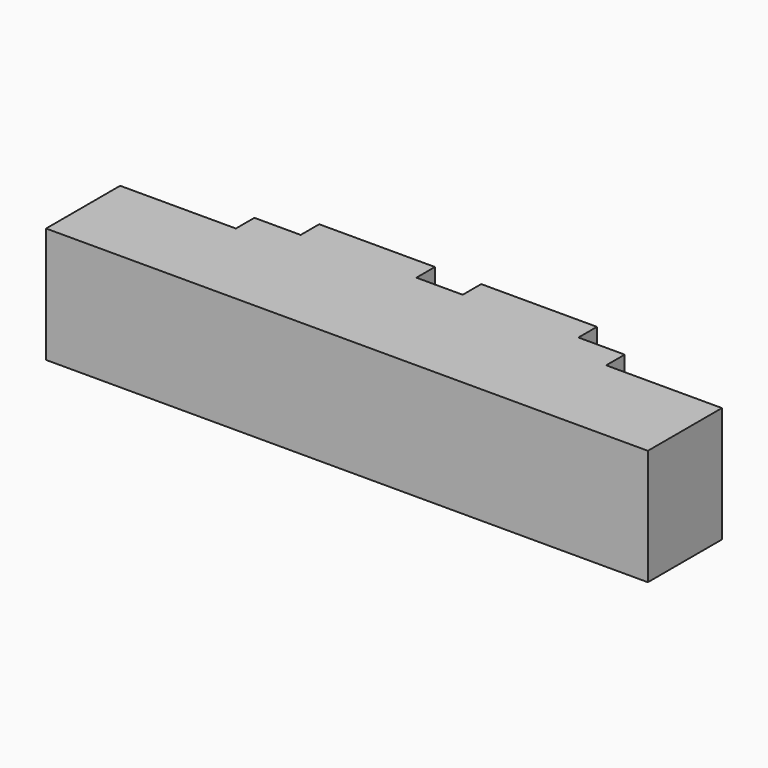
from build123d import *

# Parameters (mm, degrees)
F0_W     = 66.04
F0_H     = 10.16
F1_DEPTH = 12.7
F2_W     = 12.7
F2_H     = 12.7
F3_DEPTH = 5.08
F2_W_2   = 5.08
F4_DEPTH = 2.54


with BuildPart() as f1:
    # F0 (on Top) → F1 (new body)
    with BuildSketch(Plane.XY):
        with Locations((33.02, -5.08)):
            Rectangle(F0_W, F0_H)
    extrude(amount=F1_DEPTH)

    # F2 (on face) → F3 (join)
    with BuildSketch(Plane(origin=(0, 0, 0), x_dir=(-1, 0, 0), z_dir=(0, 1, 0))):
        with Locations((-24.13, 6.35)):
            Rectangle(F2_W, F2_H)
        with Locations((-41.91, 6.35)):
            Rectangle(F2_W, F2_H)
    extrude(amount=F3_DEPTH)

    # F2 (on face) → F4 (join)
    with BuildSketch(Plane(origin=(0, 0, 0), x_dir=(-1, 0, 0), z_dir=(0, 1, 0))):
        with Locations((-15.24, 6.35)):
            Rectangle(F2_W_2, F2_H)
        with Locations((-33.02, 6.35)):
            Rectangle(F2_W_2, F2_H)
        with Locations((-50.8, 6.35)):
            Rectangle(F2_W_2, F2_H)
    extrude(amount=F4_DEPTH)


solid = f1.part
